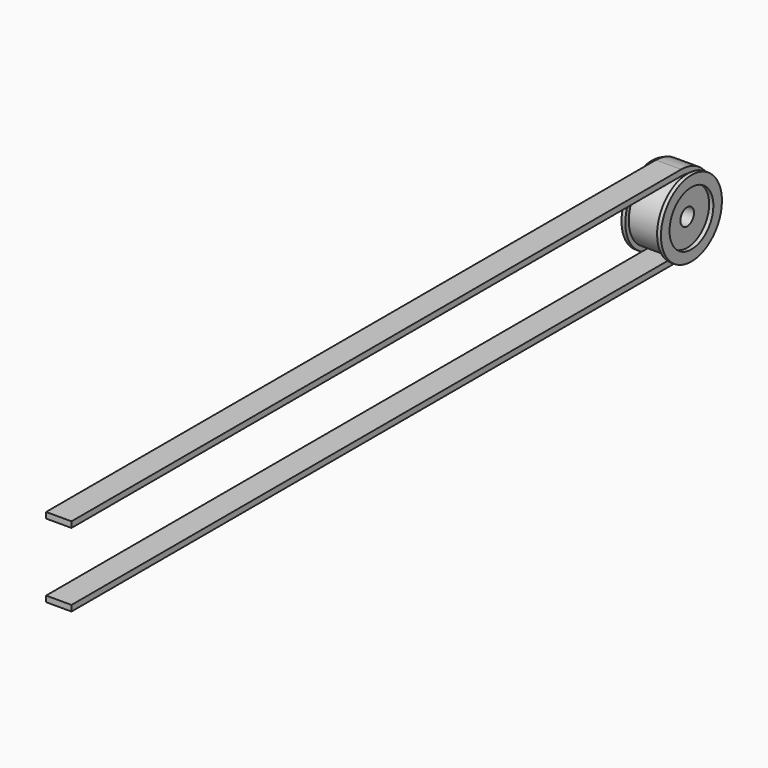
from build123d import *

# Parameters (mm, degrees)
F3_DEPTH = 6


with BuildPart() as f1:
    # F0 (on Front) → F1 (revolve)
    with BuildSketch(Plane.XZ):
        Polygon((0, 9), (0, 6.47), (3.4, 6.47), (3.4, 2), (8.32, 2), (8.32, 6.47), (9.32, 6.47), (9.32, 9), (8.41, 9), (8.41, 8), (0.91, 8), (0.91, 9), align=None)
    revolve(axis=Axis((4.66, 0, 0), (1, 0, 0)))


with BuildPart() as f3:
    # F2 (on face) → F3 (new body)
    with BuildSketch(Plane.YZ.offset(0.91)):
        with BuildLine():
            ThreePointArc((0, 8), (8, 0), (0, -8))
            Line((0, -8), (-180, -8))
            Line((-180, -8), (-180, -9.38))
            Line((-180, -9.38), (0, -9.38))
            ThreePointArc((0, -9.38), (9.38, 0), (0, 9.38))
            Line((0, 9.38), (-180, 9.38))
            Line((-180, 9.38), (-180, 8))
            Line((-180, 8), (0, 8))
        make_face()
    extrude(amount=F3_DEPTH)


solid = Compound([f1.part, f3.part])
